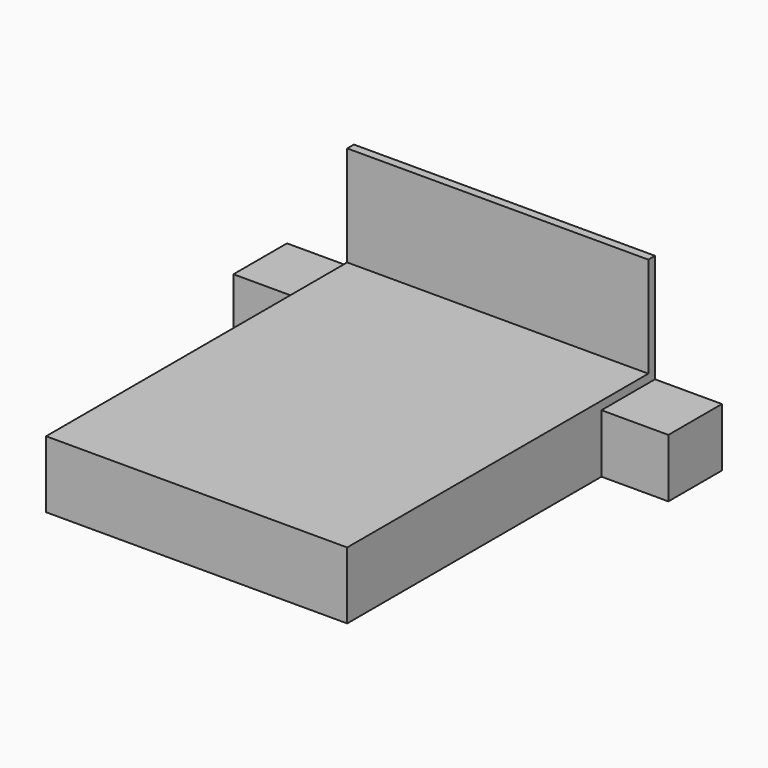
from build123d import *

# Parameters (mm, degrees)
F0_W     = 1800
F0_H     = 2300
F1_DEPTH = 400
F2_W     = 400
F2_H     = 400
F3_DEPTH = 350
F4_W     = 1800
F4_H     = 1000
F5_DEPTH = 50


with BuildPart() as f1:
    # F0 (on Top) → F1 (new body)
    with BuildSketch(Plane.XY):
        with Locations((809.037431, -1150)):
            Rectangle(F0_W, F0_H)
    extrude(amount=F1_DEPTH)

    # F2 (on Top) → F3 (join)
    with BuildSketch(Plane.XY):
        with Locations((1909.037431, -200)):
            Rectangle(F2_W, F2_H)
        with Locations((-290.962569, -200)):
            Rectangle(F2_W, F2_H)
    extrude(amount=F3_DEPTH)

    # F4 (on face) → F5 (join)
    with BuildSketch(Plane(origin=(0, 0, 0), x_dir=(-1, 0, 0), z_dir=(0, 1, 0))):
        with Locations((-809.037431, 500)):
            Rectangle(F4_W, F4_H)
    extrude(amount=-F5_DEPTH)


solid = f1.part
